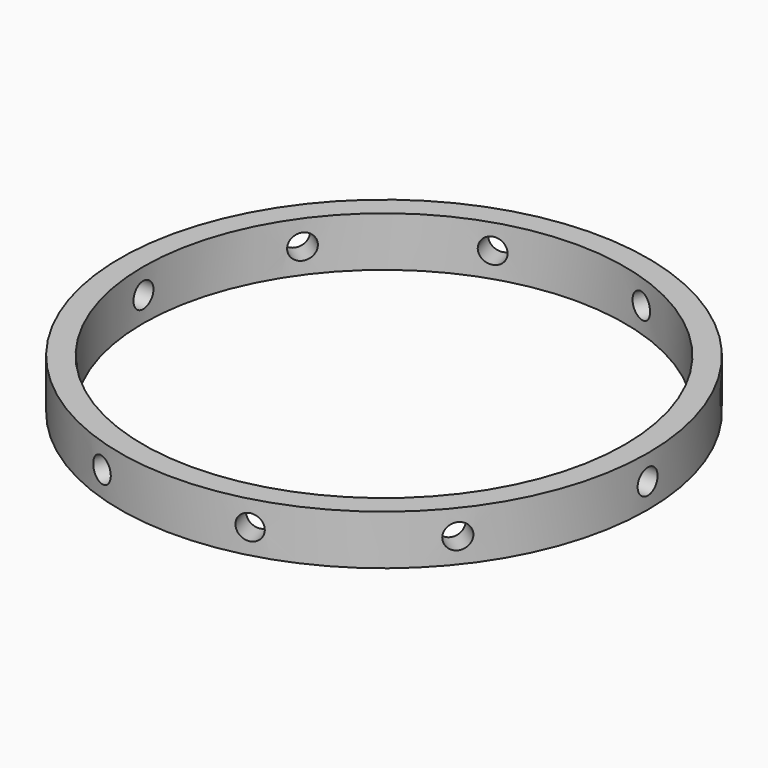
from build123d import *

# Parameters (mm, degrees)
F0_R           = 29
F1_DEPTH       = 6
F9_R           = 1.5
F12_DEPTH      = 5
F12_DEPTH_BACK = 10
F10_R          = 1.5
F13_DEPTH      = 5
F13_DEPTH_BACK = 10
F8_R           = 1.5
F14_DEPTH      = 5
F14_DEPTH_BACK = 10
F11_R          = 1.5
F15_DEPTH      = 5
F15_DEPTH_BACK = 10
F4_R           = 1.5
F16_DEPTH      = 5
F16_DEPTH_BACK = 10
F7_R           = 1.5
F17_DEPTH      = 5
F17_DEPTH_BACK = 10
F6_R           = 1.5
F18_DEPTH      = 5
F18_DEPTH_BACK = 10
F5_R           = 1.5
F19_DEPTH      = 5
F19_DEPTH_BACK = 10
F3_R           = 1.5
F20_DEPTH      = 5
F20_DEPTH_BACK = 10
F21_R          = 36.5
F21_R_2        = 31.775
F22_DEPTH      = 6
F2_R           = 1.5
F23_DEPTH      = 10


with BuildPart() as f1:
    # F0 (on Top) → F1 (new body)
    with BuildSketch(Plane.XY):
        Polygon((33.286979, -10.815593), (33.286977, 10.815597), (20.572482, 28.315596), (-2e-06, 35), (-20.572485, 28.315594), (-33.286979, 10.815593), (-33.286977, -10.815597), (-20.572482, -28.315596), (2e-06, -35), (20.572485, -28.315594), align=None)
        Circle(F0_R, mode=Mode.SUBTRACT)
    extrude(amount=F1_DEPTH)

    # F9 (on face) → F12 (cut, two sides)
    with BuildSketch(Plane(origin=(-33.286978, -2e-06, 0), x_dir=(0, -1, 0), z_dir=(-1, 0, 0))) as f12_sk:
        with Locations((0.000595, 3)):
            Circle(F9_R)
    extrude(amount=-F12_DEPTH, mode=Mode.SUBTRACT)
    extrude(f12_sk.sketch, amount=-F12_DEPTH_BACK, mode=Mode.SUBTRACT)

    # F10 (on face) → F13 (cut, two sides)
    with BuildSketch(Plane(origin=(10.286244, -31.657797, 0), x_dir=(0.951056, 0.309017, 0), z_dir=(0.309017, -0.951056, 0))) as f13_sk:
        with Locations((-1.499405, 3)):
            Circle(F10_R)
    extrude(amount=-F13_DEPTH, mode=Mode.SUBTRACT)
    extrude(f13_sk.sketch, amount=-F13_DEPTH_BACK, mode=Mode.SUBTRACT)

    # F8 (on face) → F14 (cut, two sides)
    with BuildSketch(Plane(origin=(33.286978, 2e-06, 0), x_dir=(0, 1, 0), z_dir=(1, 0, 0))) as f14_sk:
        with Locations((0.000595, 3)):
            Circle(F8_R)
    extrude(amount=F14_DEPTH, mode=Mode.SUBTRACT)
    extrude(f14_sk.sketch, amount=-F14_DEPTH_BACK, mode=Mode.SUBTRACT)

    # F11 (on face) → F15 (cut, two sides)
    with BuildSketch(Plane(origin=(26.929732, -19.565593, 0), x_dir=(0.587785, 0.809017, 0), z_dir=(0.809017, -0.587785, 0))) as f15_sk:
        with Locations((-1.499405, 3)):
            Circle(F11_R)
    extrude(amount=F15_DEPTH, mode=Mode.SUBTRACT)
    extrude(f15_sk.sketch, amount=-F15_DEPTH_BACK, mode=Mode.SUBTRACT)

    # F4 (on face) → F16 (cut, two sides)
    with BuildSketch(Plane(origin=(-26.92973, -19.565596, 0), x_dir=(0.587785, -0.809017, 0), z_dir=(-0.809017, -0.587785, 0))) as f16_sk:
        with Locations((0.000595, 3)):
            Circle(F4_R)
    extrude(amount=F16_DEPTH, mode=Mode.SUBTRACT)
    extrude(f16_sk.sketch, amount=-F16_DEPTH_BACK, mode=Mode.SUBTRACT)

    # F7 (on face) → F17 (cut, two sides)
    with BuildSketch(Plane(origin=(-26.929732, 19.565593, 0), x_dir=(-0.587785, -0.809017, 0), z_dir=(-0.809017, 0.587785, 0))) as f17_sk:
        with Locations((0.000595, 3)):
            Circle(F7_R)
    extrude(amount=F17_DEPTH, mode=Mode.SUBTRACT)
    extrude(f17_sk.sketch, amount=-F17_DEPTH_BACK, mode=Mode.SUBTRACT)

    # F6 (on face) → F18 (cut, two sides)
    with BuildSketch(Plane(origin=(26.92973, 19.565596, 0), x_dir=(-0.587785, 0.809017, 0), z_dir=(0.809017, 0.587785, 0))) as f18_sk:
        with Locations((0.000595, 3)):
            Circle(F6_R)
    extrude(amount=-F18_DEPTH, mode=Mode.SUBTRACT)
    extrude(f18_sk.sketch, amount=-F18_DEPTH_BACK, mode=Mode.SUBTRACT)

    # F5 (on face) → F19 (cut, two sides)
    with BuildSketch(Plane(origin=(-10.28624, -31.657798, 0), x_dir=(0.951057, -0.309017, 0), z_dir=(-0.309017, -0.951057, 0))) as f19_sk:
        with Locations((0.000595, 3)):
            Circle(F5_R)
    extrude(amount=-F19_DEPTH, mode=Mode.SUBTRACT)
    extrude(f19_sk.sketch, amount=-F19_DEPTH_BACK, mode=Mode.SUBTRACT)

    # F3 (on face) → F20 (cut, two sides)
    with BuildSketch(Plane(origin=(10.28624, 31.657798, 0), x_dir=(-0.951057, 0.309017, 0), z_dir=(0.309017, 0.951057, 0))) as f20_sk:
        with Locations((0.000595, 3)):
            Circle(F3_R)
    extrude(amount=-F20_DEPTH, mode=Mode.SUBTRACT)
    extrude(f20_sk.sketch, amount=-F20_DEPTH_BACK, mode=Mode.SUBTRACT)

    # F21 (on Top) → F22 (cut)
    with BuildSketch(Plane.XY):
        Circle(F21_R)
        Circle(F21_R_2, mode=Mode.SUBTRACT)
    extrude(amount=F22_DEPTH, mode=Mode.SUBTRACT)

    # F2 (on face) → F23 (cut)
    with BuildSketch(Plane(origin=(-10.286244, 31.657797, 0), x_dir=(-0.951056, -0.309017, 0), z_dir=(-0.309017, 0.951056, 0))):
        with Locations((0.000595, 3)):
            Circle(F2_R)
    extrude(amount=-F23_DEPTH, mode=Mode.SUBTRACT)


solid = f1.part
